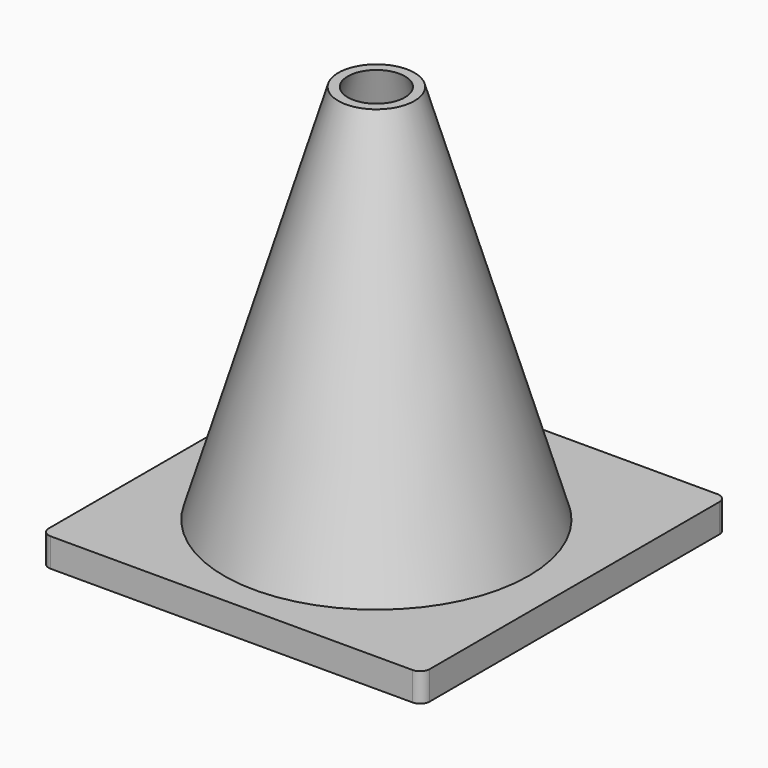
from build123d import *

# Parameters (mm, degrees)
BOX_W     = 40
BOX_H     = 40
BOX_DEPTH = 3
FILLET_R  = 1


with BuildPart() as fillet_body:
    # Box → Box (new body)
    with BuildSketch(Plane.XY.offset(-3)):
        with Locations((20, 20)):
            Rectangle(BOX_W, BOX_H)
    extrude(amount=BOX_DEPTH)

    # Fillet
    fillet_edges = [fillet_body.edges().sort_by_distance(p)[0] for p in [
        (0, 0, -1.5),
        (0, 40, -1.5),
        (40, 0, -1.5),
        (40, 40, -1.5),
    ]]
    fillet(fillet_edges, radius=FILLET_R)


with BuildPart() as fillet_body_1:
    # Fillet placement: moved
    add(fillet_body.part.moved(Location((-20, -19, 0))))


with BuildPart() as cone001:
    # Cone001 → Cone001 (revolve)
    with BuildSketch(Plane.XZ):
        Polygon((0, 0), (15, 0), (3, 40), (0, 40), align=None)
    revolve(axis=Axis((0, 0, 0), (0, 0, 1)))


with BuildPart() as fusion:
    # Cone → Cone (revolve)
    with BuildSketch(Plane.XZ):
        Polygon((0, 0), (16, 0), (4, 40), (0, 40), align=None)
    revolve(axis=Axis((0, 0, 0), (0, 0, 1)))

    # Cut: cut Cone001
    add(cone001.part, mode=Mode.SUBTRACT)

    # Fusion: union Fillet body
    add(fillet_body_1.part)


solid = fusion.part
